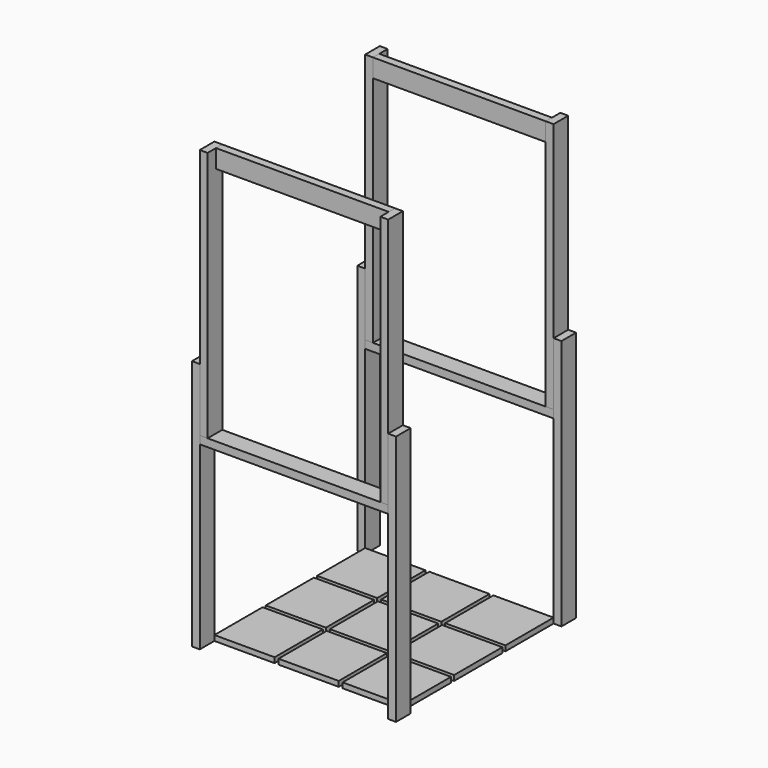
from build123d import *

# Parameters (mm, degrees)
F0_W      = 292.1
F0_H      = 292.1
F1_DEPTH  = 25.4
F2_W      = 38.1
F2_H      = 88.9
F3_DEPTH  = 1219.2
F5_W      = 38.1
F5_H      = 88.9
F6_DEPTH  = 1219.2
F7_W      = 88.9
F7_H      = 38.1
F8_DEPTH  = 914.4
F9_W      = 38.1
F9_H      = 88.9
F10_DEPTH = 838.2


with BuildPart() as f1:
    # F0 (on Top) → F1 (new body)
    with BuildSketch(Plane.XY):
        with Locations((-311.15, 311.15)):
            Rectangle(F0_W, F0_H)
    extrude(amount=F1_DEPTH)


with BuildPart() as f1b:
    # F0 (on Top) → F1, piece 2 (new body)
    with BuildSketch(Plane.XY):
        with Locations((-311.15, 0)):
            Rectangle(F0_W, F0_H)
    extrude(amount=F1_DEPTH)


with BuildPart() as f1c:
    # F0 (on Top) → F1, piece 3 (new body)
    with BuildSketch(Plane.XY):
        with Locations((-311.15, -311.15)):
            Rectangle(F0_W, F0_H)
    extrude(amount=F1_DEPTH)


with BuildPart() as f1d:
    # F0 (on Top) → F1, piece 4 (new body)
    with BuildSketch(Plane.XY):
        with Locations((0, 311.15)):
            Rectangle(F0_W, F0_H)
    extrude(amount=F1_DEPTH)


with BuildPart() as f1e:
    # F0 (on Top) → F1, piece 5 (new body)
    with BuildSketch(Plane.XY):
        Rectangle(F0_W, F0_H)
    extrude(amount=F1_DEPTH)


with BuildPart() as f1f:
    # F0 (on Top) → F1, piece 6 (new body)
    with BuildSketch(Plane.XY):
        with Locations((0, -311.15)):
            Rectangle(F0_W, F0_H)
    extrude(amount=F1_DEPTH)


with BuildPart() as f1g:
    # F0 (on Top) → F1, piece 7 (new body)
    with BuildSketch(Plane.XY):
        with Locations((311.15, 311.15)):
            Rectangle(F0_W, F0_H)
    extrude(amount=F1_DEPTH)


with BuildPart() as f1h:
    # F0 (on Top) → F1, piece 8 (new body)
    with BuildSketch(Plane.XY):
        with Locations((311.15, 0)):
            Rectangle(F0_W, F0_H)
    extrude(amount=F1_DEPTH)


with BuildPart() as f1i:
    # F0 (on Top) → F1, piece 9 (new body)
    with BuildSketch(Plane.XY):
        with Locations((311.15, -311.15)):
            Rectangle(F0_W, F0_H)
    extrude(amount=F1_DEPTH)


with BuildPart() as f3:
    # F2 (on Top) → F3 (new body)
    with BuildSketch(Plane.XY):
        with Locations((-476.25, 501.65)):
            Rectangle(F2_W, F2_H)
    extrude(amount=F3_DEPTH)


with BuildPart() as f3b:
    # F2 (on Top) → F3, piece 2 (new body)
    with BuildSketch(Plane.XY):
        with Locations((-476.25, -501.65)):
            Rectangle(F2_W, F2_H)
    extrude(amount=F3_DEPTH)


with BuildPart() as f3c:
    # F2 (on Top) → F3, piece 3 (new body)
    with BuildSketch(Plane.XY):
        with Locations((476.25, 501.65)):
            Rectangle(F2_W, F2_H)
    extrude(amount=F3_DEPTH)


with BuildPart() as f3d:
    # F2 (on Top) → F3, piece 4 (new body)
    with BuildSketch(Plane.XY):
        with Locations((476.25, -501.65)):
            Rectangle(F2_W, F2_H)
    extrude(amount=F3_DEPTH)


with BuildPart() as f6:
    # F5 (on offset) → F6 (new body)
    with BuildSketch(Plane.XY.offset(914.4)):
        with Locations((-438.15, 501.65)):
            Rectangle(F5_W, F5_H)
    extrude(amount=F6_DEPTH)


with BuildPart() as f6b:
    # F5 (on offset) → F6, piece 2 (new body)
    with BuildSketch(Plane.XY.offset(914.4)):
        with Locations((-438.15, -501.65)):
            Rectangle(F5_W, F5_H)
    extrude(amount=F6_DEPTH)


with BuildPart() as f6c:
    # F5 (on offset) → F6, piece 3 (new body)
    with BuildSketch(Plane.XY.offset(914.4)):
        with Locations((438.15, 501.65)):
            Rectangle(F5_W, F5_H)
    extrude(amount=F6_DEPTH)


with BuildPart() as f6d:
    # F5 (on offset) → F6, piece 4 (new body)
    with BuildSketch(Plane.XY.offset(914.4)):
        with Locations((438.15, -501.65)):
            Rectangle(F5_W, F5_H)
    extrude(amount=F6_DEPTH)


with BuildPart() as f8:
    # F7 (on face) → F8 (new body, through all)
    with BuildSketch(Plane.YZ.offset(-457.2)):
        with Locations((-501.65, 895.35)):
            Rectangle(F7_W, F7_H)
    extrude(amount=F8_DEPTH)


with BuildPart() as f8b:
    # F7 (on face) → F8, piece 2 (new body, through all)
    with BuildSketch(Plane.YZ.offset(-457.2)):
        with Locations((501.65, 895.35)):
            Rectangle(F7_W, F7_H)
    extrude(amount=F8_DEPTH)


with BuildPart() as f10:
    # F9 (on face) → F10 (new body, through all)
    with BuildSketch(Plane.YZ.offset(-419.1)):
        with Locations((-476.25, 2089.15)):
            Rectangle(F9_W, F9_H)
    extrude(amount=F10_DEPTH)


with BuildPart() as f10b:
    # F9 (on face) → F10, piece 2 (new body, through all)
    with BuildSketch(Plane.YZ.offset(-419.1)):
        with Locations((476.25, 2089.15)):
            Rectangle(F9_W, F9_H)
    extrude(amount=F10_DEPTH)


solid = Compound([f1.part, f1b.part, f1c.part, f1d.part, f1e.part, f1f.part, f1g.part, f1h.part, f1i.part, f3.part, f3b.part, f3c.part, f3d.part, f6.part, f6b.part, f6c.part, f6d.part, f8.part, f8b.part, f10.part, f10b.part])
